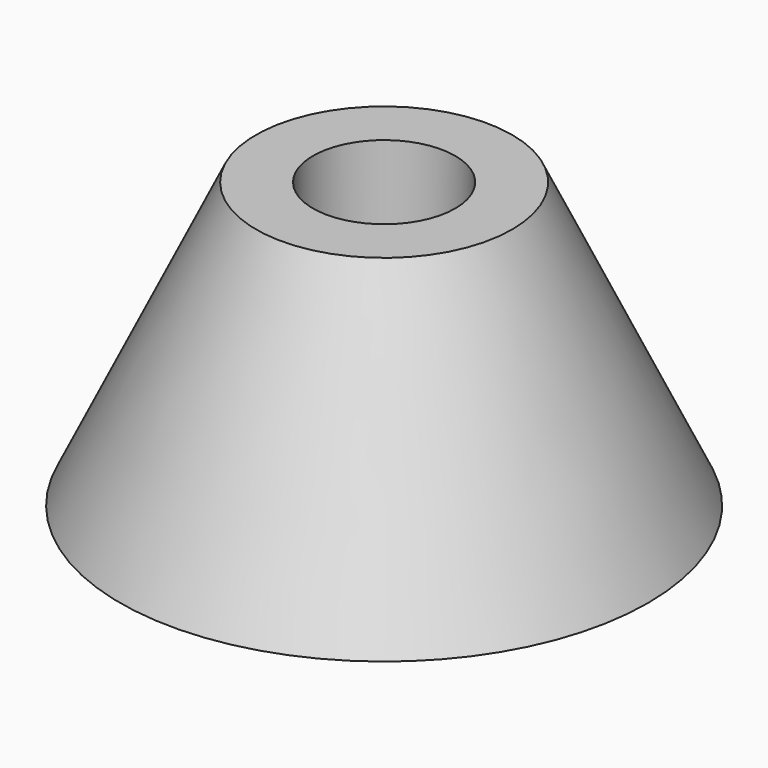
from build123d import *


with BuildPart() as part:
    # Sketch → Revolution (revolve)
    with BuildSketch(Plane.XZ):
        Polygon((2.5, 10), (2.5, 6), (0, 6), (0, 0), (9.273503, 0), (4.5, 10), align=None)
    revolve(axis=Axis((0, 0, 0), (0, 0, 1)))


solid = part.part
